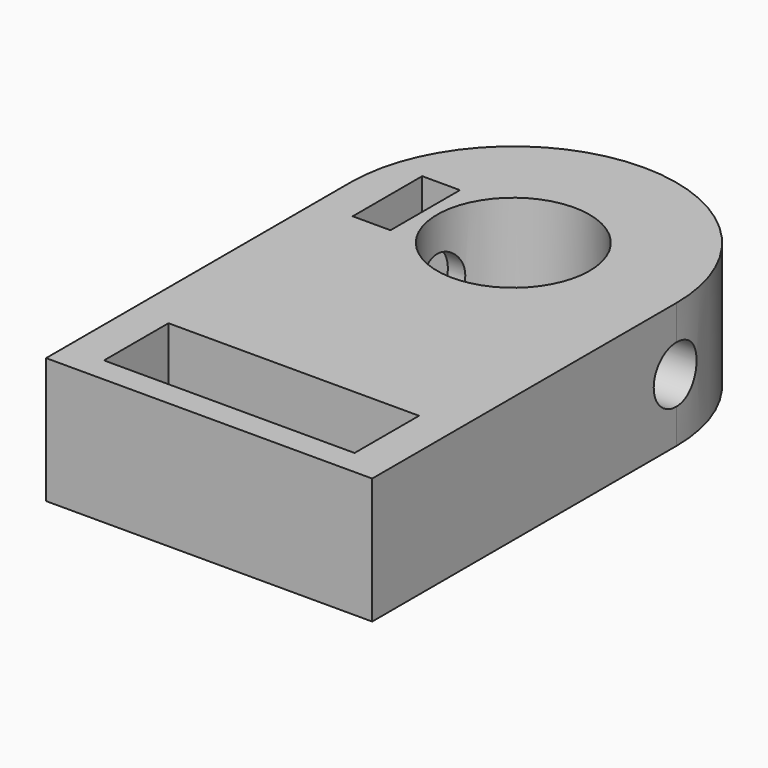
from build123d import *

# Parameters (mm, degrees)
SKETCH_R        = 6.05
SKETCH_W        = 19.9
SKETCH_H        = 6.4
PAD_DEPTH       = 10
SKETCH002_W     = 3
SKETCH002_H     = 6.9
POCKET001_DEPTH = 12
SKETCH003_R     = 2.25
POCKET_DEPTH    = 6
SKETCH004_R     = 2.25
POCKET002_DEPTH = 25.901


with BuildPart() as part:
    # Sketch → Pad (new body)
    with BuildSketch(Plane.XY):
        with BuildLine():
            ThreePointArc((12.95, 0), (0, 12.95), (-12.95, 0))
            Line((-12.95, 0), (-12.95, -30.2))
            Line((-12.95, -30.2), (12.95, -30.2))
            Line((12.95, -30.2), (12.95, 0))
        make_face()
        Circle(SKETCH_R, mode=Mode.SUBTRACT)
        with Locations((0, -25)):
            Rectangle(SKETCH_W, SKETCH_H, mode=Mode.SUBTRACT)
    extrude(amount=PAD_DEPTH)

    # Sketch002 → Pocket001 (cut)
    with BuildSketch(Plane.XY.offset(10)):
        with Locations((-8.5, 0)):
            Rectangle(SKETCH002_W, SKETCH002_H)
    extrude(amount=-POCKET001_DEPTH, mode=Mode.SUBTRACT)

    # Sketch003 → Pocket (cut, symmetric)
    with BuildSketch(Plane.YZ.offset(-9.95)):
        with Locations((0, 5)):
            Circle(SKETCH003_R)
    extrude(amount=POCKET_DEPTH, both=True, mode=Mode.SUBTRACT)

    # Sketch004 → Pocket002 (cut, through all)
    with BuildSketch(Plane.YZ.offset(12.95)):
        with Locations((0, 5)):
            Circle(SKETCH004_R)
    extrude(amount=-POCKET002_DEPTH, mode=Mode.SUBTRACT)


solid = part.part
